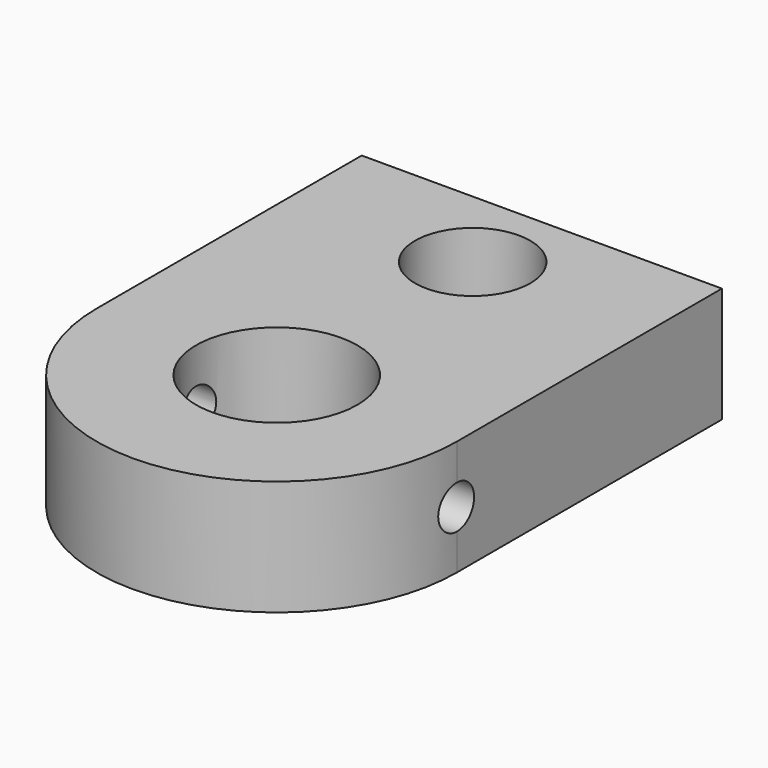
from build123d import *

# Parameters (mm, degrees)
SKETCH_R          = 5.6
SKETCH_R_2        = 4
PAD_DEPTH         = 8
SKETCH001_R       = 1.5
POCKET_DEPTH      = 100
POCKET_DEPTH_BACK = 100


with BuildPart() as part:
    # Sketch → Pad (new body)
    with BuildSketch(Plane.XY):
        with BuildLine():
            ThreePointArc((-12.5, 0), (0, -12.5), (12.5, 0))
            Line((12.5, 0), (12.5, 23))
            Line((-12.5, 23), (12.5, 23))
            Line((-12.5, 0), (-12.5, 23))
        make_face()
        Circle(SKETCH_R, mode=Mode.SUBTRACT)
        with Locations((0, 17)):
            Circle(SKETCH_R_2, mode=Mode.SUBTRACT)
    extrude(amount=PAD_DEPTH)

    # Sketch001 → Pocket (cut, two sides)
    with BuildSketch(Plane.YZ) as pocket_sk:
        with Locations((0, 4)):
            Circle(SKETCH001_R)
    extrude(amount=-POCKET_DEPTH, mode=Mode.SUBTRACT)
    extrude(pocket_sk.sketch, amount=POCKET_DEPTH_BACK, mode=Mode.SUBTRACT)


solid = part.part
